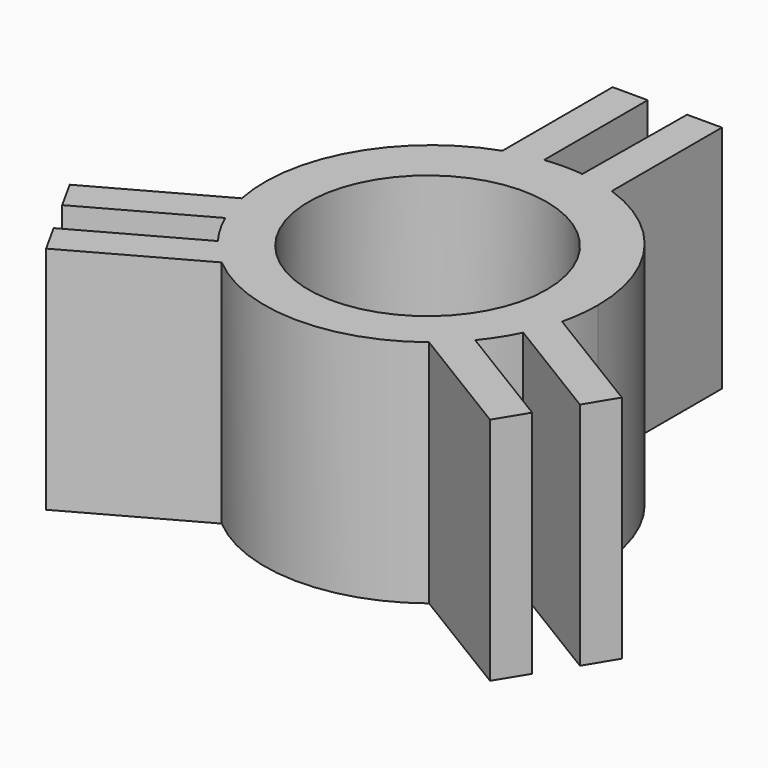
from build123d import *

# Parameters (mm, degrees)
F0_R     = 5.522275
F0_R_2   = 1.27325
F1_DEPTH = 1.3716
F2_DEPTH = 7.6962
F3_DEPTH = 9.652
F4_DEPTH = 10.668


with BuildPart() as f1:
    # F0 (on Top) → F1 (new body)
    with BuildSketch(Plane.XY):
        Circle(F0_R)
        Circle(F0_R_2, mode=Mode.SUBTRACT)
    extrude(amount=F1_DEPTH)

    # F0 (on Top) → F2 (join)
    with BuildSketch(Plane.XY):
        with BuildLine():
            ThreePointArc((7.517685, -1.599688), (7.678957, -0.700082), (7.732966, 0.212269))
            ThreePointArc((7.732966, 0.212269), (6.299561, 4.697166), (2.530744, 7.519396))
            ThreePointArc((2.530744, 7.519396), (1.706006, 7.754703), (0.860282, 7.897234))
            ThreePointArc((0.860282, 7.897234), (0.43081, 7.933226), (0, 7.945235))
            ThreePointArc((0, 7.945235), (-0.456383, 7.931756), (-0.911175, 7.891366))
            ThreePointArc((-0.911175, 7.891366), (-0.921549, 7.890128), (-0.93192, 7.888876))
            ThreePointArc((-0.93192, 7.888876), (-1.746141, 7.745513), (-2.540403, 7.516043))
            ThreePointArc((-2.540403, 7.516043), (-6.71147, 4.053485), (-7.584297, -1.296775))
            ThreePointArc((-7.584297, -1.296775), (-7.3792, -2.099913), (-7.089314, -2.876483))
            ThreePointArc((-7.089314, -2.876483), (-6.673834, -3.693971), (-6.164503, -4.456529))
            ThreePointArc((-6.164503, -4.456529), (-5.619672, -5.099798), (-5.008058, -5.67994))
            ThreePointArc((-5.008058, -5.67994), (-0.155544, -7.519133), (4.767017, -5.8766))
            ThreePointArc((4.767017, -5.8766), (5.40017, -5.322795), (5.969425, -4.703495))
            ThreePointArc((5.969425, -4.703495), (6.511698, -3.958649), (6.961536, -3.154597))
            ThreePointArc((6.961536, -3.154597), (7.281236, -2.392031), (7.517685, -1.599688))
        make_face()
        Circle(F0_R, mode=Mode.SUBTRACT)
    extrude(amount=F2_DEPTH)

    # F0 (on Top) → F3 (join)
    with BuildSketch(Plane.XY):
        with BuildLine():
            ThreePointArc((7.517685, -1.599688), (7.678957, -0.700082), (7.732966, 0.212269))
            ThreePointArc((7.732966, 0.212269), (6.299561, 4.697166), (2.530744, 7.519396))
            ThreePointArc((2.530744, 7.519396), (1.706006, 7.754703), (0.860282, 7.897234))
            ThreePointArc((0.860282, 7.897234), (0.43081, 7.933226), (0, 7.945235))
            ThreePointArc((0, 7.945235), (-0.456383, 7.931756), (-0.911175, 7.891366))
            ThreePointArc((-0.911175, 7.891366), (-0.921549, 7.890128), (-0.93192, 7.888876))
            ThreePointArc((-0.93192, 7.888876), (-1.746141, 7.745513), (-2.540403, 7.516043))
            ThreePointArc((-2.540403, 7.516043), (-6.71147, 4.053485), (-7.584297, -1.296775))
            ThreePointArc((-7.584297, -1.296775), (-7.3792, -2.099913), (-7.089314, -2.876483))
            ThreePointArc((-7.089314, -2.876483), (-6.673834, -3.693971), (-6.164503, -4.456529))
            ThreePointArc((-6.164503, -4.456529), (-5.619672, -5.099798), (-5.008058, -5.67994))
            ThreePointArc((-5.008058, -5.67994), (-0.155544, -7.519133), (4.767017, -5.8766))
            ThreePointArc((4.767017, -5.8766), (5.40017, -5.322795), (5.969425, -4.703495))
            ThreePointArc((5.969425, -4.703495), (6.511698, -3.958649), (6.961536, -3.154597))
            ThreePointArc((6.961536, -3.154597), (7.281236, -2.392031), (7.517685, -1.599688))
        make_face()
        Circle(F0_R, mode=Mode.SUBTRACT)
        with BuildLine():
            ThreePointArc((0.860282, 7.897234), (1.706006, 7.754703), (2.530744, 7.519396))
            Line((2.530744, 7.519396), (2.530744, 13.906265))
            Line((2.530744, 13.906265), (0.914411, 13.906265))
            Line((0.914411, 13.906265), (0.860282, 7.897234))
        make_face()
        with BuildLine():
            Line((12.93451, -4.900329), (7.517685, -1.599688))
            ThreePointArc((7.517685, -1.599688), (7.281236, -2.392031), (6.961536, -3.154597))
            Line((6.961536, -3.154597), (12.093005, -6.28136))
            Line((12.093005, -6.28136), (12.93451, -4.900329))
        make_face()
        with BuildLine():
            Line((11.13613, -7.851729), (5.969425, -4.703495))
            ThreePointArc((5.969425, -4.703495), (5.40017, -5.322795), (4.767017, -5.8766))
            Line((4.767017, -5.8766), (10.2893, -9.241499))
            Line((10.2893, -9.241499), (11.13613, -7.851729))
        make_face()
        with BuildLine():
            ThreePointArc((-0.93192, 7.888876), (-0.921549, 7.890128), (-0.911175, 7.891366))
            Line((-0.911175, 7.891366), (-0.911175, 13.906265))
            Line((-0.911175, 13.906265), (-2.540403, 13.906265))
            Line((-2.540403, 13.906265), (-2.540403, 7.516043))
            ThreePointArc((-2.540403, 7.516043), (-1.746141, 7.745513), (-0.93192, 7.888876))
        make_face()
        with BuildLine():
            Line((-10.655986, -8.807297), (-5.008058, -5.67994))
            ThreePointArc((-5.008058, -5.67994), (-5.619672, -5.099798), (-6.164503, -4.456529))
            Line((-6.164503, -4.456529), (-11.445815, -7.380884))
            Line((-11.445815, -7.380884), (-10.655986, -8.807297))
        make_face()
        with BuildLine():
            ThreePointArc((-7.089314, -2.876483), (-7.3792, -2.099913), (-7.584297, -1.296775))
            Line((-7.584297, -1.296775), (-13.11972, -4.357855))
            Line((-13.11972, -4.357855), (-12.332427, -5.779687))
            Line((-12.332427, -5.779687), (-7.089314, -2.876483))
        make_face()
    extrude(amount=F3_DEPTH)

    # F0 (on Top) → F4 (join)
    with BuildSketch(Plane.XY):
        with BuildLine():
            ThreePointArc((7.517685, -1.599688), (7.678957, -0.700082), (7.732966, 0.212269))
            ThreePointArc((7.732966, 0.212269), (6.299561, 4.697166), (2.530744, 7.519396))
            ThreePointArc((2.530744, 7.519396), (1.706006, 7.754703), (0.860282, 7.897234))
            ThreePointArc((0.860282, 7.897234), (0.43081, 7.933226), (0, 7.945235))
            ThreePointArc((0, 7.945235), (-0.456383, 7.931756), (-0.911175, 7.891366))
            ThreePointArc((-0.911175, 7.891366), (-0.921549, 7.890128), (-0.93192, 7.888876))
            ThreePointArc((-0.93192, 7.888876), (-1.746141, 7.745513), (-2.540403, 7.516043))
            ThreePointArc((-2.540403, 7.516043), (-6.71147, 4.053485), (-7.584297, -1.296775))
            ThreePointArc((-7.584297, -1.296775), (-7.3792, -2.099913), (-7.089314, -2.876483))
            ThreePointArc((-7.089314, -2.876483), (-6.673834, -3.693971), (-6.164503, -4.456529))
            ThreePointArc((-6.164503, -4.456529), (-5.619672, -5.099798), (-5.008058, -5.67994))
            ThreePointArc((-5.008058, -5.67994), (-0.155544, -7.519133), (4.767017, -5.8766))
            ThreePointArc((4.767017, -5.8766), (5.40017, -5.322795), (5.969425, -4.703495))
            ThreePointArc((5.969425, -4.703495), (6.511698, -3.958649), (6.961536, -3.154597))
            ThreePointArc((6.961536, -3.154597), (7.281236, -2.392031), (7.517685, -1.599688))
        make_face()
        Circle(F0_R, mode=Mode.SUBTRACT)
        with BuildLine():
            ThreePointArc((0.860282, 7.897234), (1.706006, 7.754703), (2.530744, 7.519396))
            Line((2.530744, 7.519396), (2.530744, 13.906265))
            Line((2.530744, 13.906265), (0.914411, 13.906265))
            Line((0.914411, 13.906265), (0.860282, 7.897234))
        make_face()
        with BuildLine():
            Line((12.93451, -4.900329), (7.517685, -1.599688))
            ThreePointArc((7.517685, -1.599688), (7.281236, -2.392031), (6.961536, -3.154597))
            Line((6.961536, -3.154597), (12.093005, -6.28136))
            Line((12.093005, -6.28136), (12.93451, -4.900329))
        make_face()
        with BuildLine():
            Line((11.13613, -7.851729), (5.969425, -4.703495))
            ThreePointArc((5.969425, -4.703495), (5.40017, -5.322795), (4.767017, -5.8766))
            Line((4.767017, -5.8766), (10.2893, -9.241499))
            Line((10.2893, -9.241499), (11.13613, -7.851729))
        make_face()
        with BuildLine():
            ThreePointArc((-0.93192, 7.888876), (-0.921549, 7.890128), (-0.911175, 7.891366))
            Line((-0.911175, 7.891366), (-0.911175, 13.906265))
            Line((-0.911175, 13.906265), (-2.540403, 13.906265))
            Line((-2.540403, 13.906265), (-2.540403, 7.516043))
            ThreePointArc((-2.540403, 7.516043), (-1.746141, 7.745513), (-0.93192, 7.888876))
        make_face()
        with BuildLine():
            Line((-10.655986, -8.807297), (-5.008058, -5.67994))
            ThreePointArc((-5.008058, -5.67994), (-5.619672, -5.099798), (-6.164503, -4.456529))
            Line((-6.164503, -4.456529), (-11.445815, -7.380884))
            Line((-11.445815, -7.380884), (-10.655986, -8.807297))
        make_face()
        with BuildLine():
            ThreePointArc((-7.089314, -2.876483), (-7.3792, -2.099913), (-7.584297, -1.296775))
            Line((-7.584297, -1.296775), (-13.11972, -4.357855))
            Line((-13.11972, -4.357855), (-12.332427, -5.779687))
            Line((-12.332427, -5.779687), (-7.089314, -2.876483))
        make_face()
    extrude(amount=F4_DEPTH)


solid = f1.part
